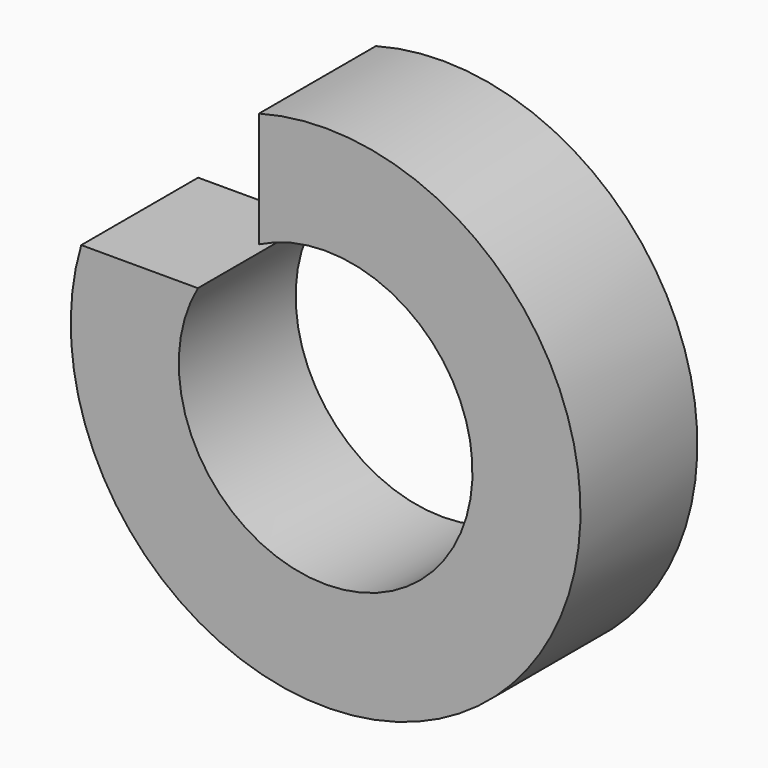
from build123d import *

# Parameters (mm, degrees)
F0_R     = 43.616372
F0_R_2   = 25.131081
F1_DEPTH = 25
F2_W     = 40.587231
F2_H     = 31.428168
F3_DEPTH = 25


with BuildPart() as f1:
    # F0 (on Front) → F1 (new body)
    with BuildSketch(Plane.XZ):
        Circle(F0_R)
        Circle(F0_R_2, mode=Mode.SUBTRACT)
    extrude(amount=F1_DEPTH)

    # F2 (on Front) → F3 (cut)
    with BuildSketch(Plane.XZ):
        with Locations((-31.697549, 28.105761)):
            Rectangle(F2_W, F2_H)
    extrude(amount=F3_DEPTH, mode=Mode.SUBTRACT)


solid = f1.part
